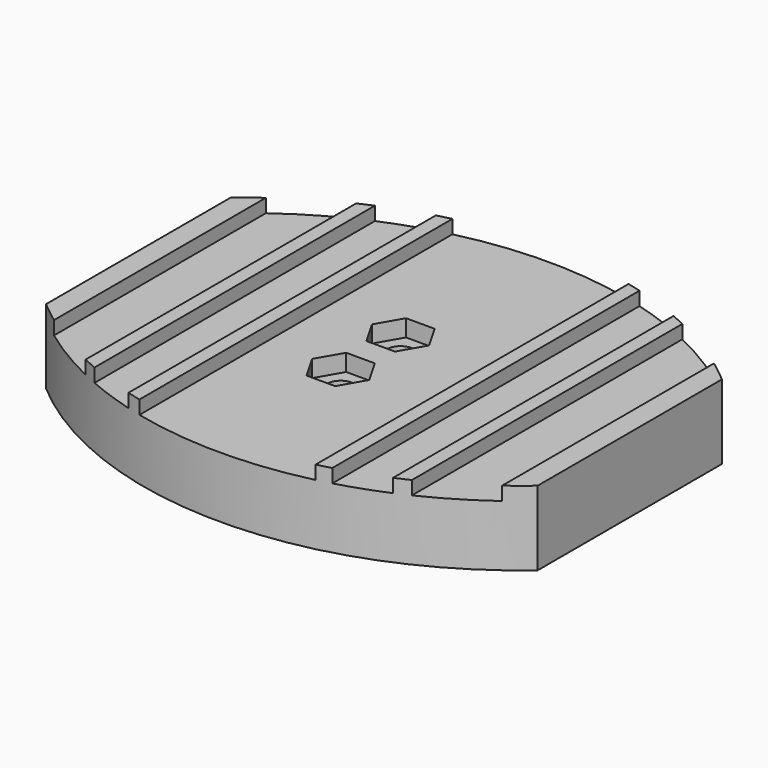
from build123d import *

# Parameters (mm, degrees)
F0_W      = 92.131638
F0_H      = 77.216
F1_DEPTH  = 13.97
F3_DEPTH  = 13.971
F5_DEPTH  = 38.609
F6_DEPTH  = 38.609
F8_DEPTH  = 3.81
F9_R      = 2.54
F10_DEPTH = 25.4
F12_DEPTH = 3.175


with BuildPart() as f1:
    # F0 (on Top) → F1 (new body)
    with BuildSketch(Plane.XY):
        Rectangle(F0_W, F0_H)
    extrude(amount=F1_DEPTH)

    # F2 (on face) → F3 (intersect, through all)
    with BuildSketch(Plane.XY.offset(13.97)):
        with BuildLine():
            Line((46.065819, 0), (46.065819, 21.59))
            ThreePointArc((46.065819, 21.59), (0, 38.608), (-46.065819, 21.59))
            Line((-46.065819, 21.59), (-46.065819, 0))
            Line((-46.065819, 0), (-46.065819, -21.59))
            ThreePointArc((-46.065819, -21.59), (0, -38.608), (46.065819, -21.59))
            Line((46.065819, -21.59), (46.065819, 0))
        make_face()
    extrude(amount=-F3_DEPTH, mode=Mode.INTERSECT)

    # F4 (on Front) → F5 (cut, through all)
    with BuildSketch(Plane.XZ):
        Polygon((30.571819, 13.97), (30.571819, 12.7), (30.571819, 11.43), (42.001819, 11.43), (42.001819, 13.97), align=None)
        Polygon((19.095909, 13.97), (19.095909, 12.7), (19.095909, 11.43), (27.985909, 11.43), (27.985909, 12.7), (27.985909, 13.97), align=None)
        Polygon((-16.51, 13.97), (-16.51, 12.7), (-16.51, 11.43), (0, 11.43), (16.51, 11.43), (16.51, 12.7), (16.51, 13.97), align=None)
        Polygon((-27.985909, 13.97), (-27.985909, 12.7), (-27.985909, 11.43), (-19.095909, 11.43), (-19.095909, 12.7), (-19.095909, 13.97), align=None)
        Polygon((-30.571819, 13.97), (-42.001819, 13.97), (-42.001819, 11.43), (-30.571819, 11.43), (-30.571819, 12.7), align=None)
    extrude(amount=-F5_DEPTH, mode=Mode.SUBTRACT)

    # F4 (on Front) → F6 (cut, through all)
    with BuildSketch(Plane.XZ):
        Polygon((30.571819, 13.97), (30.571819, 12.7), (30.571819, 11.43), (42.001819, 11.43), (42.001819, 13.97), align=None)
        Polygon((19.095909, 13.97), (19.095909, 12.7), (19.095909, 11.43), (27.985909, 11.43), (27.985909, 12.7), (27.985909, 13.97), align=None)
        Polygon((-16.51, 13.97), (-16.51, 12.7), (-16.51, 11.43), (0, 11.43), (16.51, 11.43), (16.51, 12.7), (16.51, 13.97), align=None)
        Polygon((-27.985909, 13.97), (-27.985909, 12.7), (-27.985909, 11.43), (-19.095909, 11.43), (-19.095909, 12.7), (-19.095909, 13.97), align=None)
        Polygon((-30.571819, 13.97), (-42.001819, 13.97), (-42.001819, 11.43), (-30.571819, 11.43), (-30.571819, 12.7), align=None)
    extrude(amount=F6_DEPTH, mode=Mode.SUBTRACT)

    # F7 (on face) → F8 (cut)
    with BuildSketch(Plane(origin=(0, 0, 0), x_dir=(1, 0, 0), z_dir=(0, 0, -1))):
        with BuildLine():
            ThreePointArc((-15.552723, 4.8514), (-18.983181, 3.430458), (-20.404123, 0))
            ThreePointArc((-20.404123, 0), (-18.983181, -3.430458), (-15.552723, -4.8514))
            Line((-15.552723, -4.8514), (-11.483329, -9.3218))
            Line((-11.483329, -9.3218), (-11.483329, -13.1318))
            Line((-11.483329, -13.1318), (-9.197329, -13.1318))
            ThreePointArc((-9.197329, -13.1318), (-0.624908, -16.856695), (5.107457, -9.4742))
            Line((5.107457, -9.4742), (5.107457, -6.0325))
            Line((5.107457, -6.0325), (15.572257, -6.0325))
            Line((15.572257, -6.0325), (15.572257, 0))
            Line((15.572257, 0), (15.572257, 6.0325))
            Line((15.572257, 6.0325), (5.107457, 6.0325))
            Line((5.107457, 6.0325), (5.107457, 9.4742))
            ThreePointArc((5.107457, 9.4742), (-0.624908, 16.856695), (-9.197329, 13.1318))
            Line((-9.197329, 13.1318), (-11.483329, 13.1318))
            Line((-11.483329, 13.1318), (-11.483329, 9.3218))
            Line((-11.483329, 9.3218), (-15.552723, 4.8514))
        make_face()
    extrude(amount=-F8_DEPTH, mode=Mode.SUBTRACT)

    # F9 (on face) → F10 (cut)
    with BuildSketch(Plane(origin=(0, 0, 3.81), x_dir=(1, 0, 0), z_dir=(0, 0, -1))):
        with Locations((-2.512543, -7.0104)):
            Circle(F9_R)
        with Locations((-2.512543, 7.0104)):
            Circle(F9_R)
    extrude(amount=-F10_DEPTH, mode=Mode.SUBTRACT)

    # F11 (on face) → F12 (cut)
    with BuildSketch(Plane.XY.offset(11.43)):
        Polygon((-5.18885, -2.3749), (-7.865157, -7.0104), (-5.18885, -11.6459), (0.163764, -11.6459), (2.840071, -7.0104), (0.163764, -2.3749), align=None)
        Polygon((0.163764, 11.6459), (-5.18885, 11.6459), (-7.865157, 7.0104), (-5.18885, 2.3749), (0.163764, 2.3749), (2.840071, 7.0104), align=None)
    extrude(amount=-F12_DEPTH, mode=Mode.SUBTRACT)


solid = f1.part
